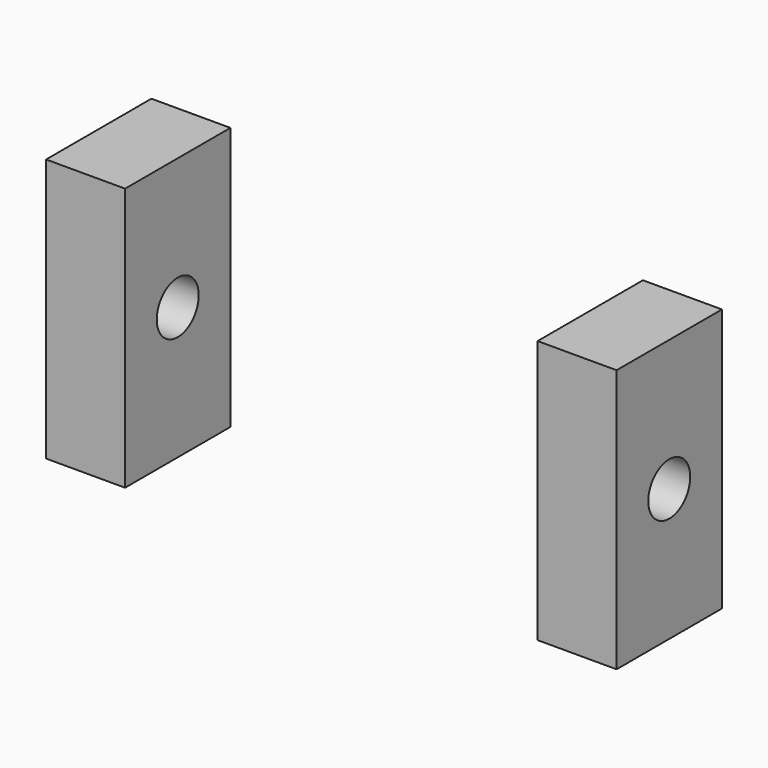
from build123d import *

# Parameters (mm, degrees)
F0_W     = 15.24
F0_H     = 50.8
F1_DEPTH = 25.4
F2_R     = 5.056787
F3_DEPTH = 25.4


with BuildPart() as f1:
    # F0 (on Front) → F1 (new body)
    with BuildSketch(Plane.XZ):
        with Locations((-47.413691, 6.187824)):
            Rectangle(F0_W, F0_H)
    extrude(amount=F1_DEPTH)

    # F2 (on face) → F3 (cut)
    with BuildSketch(Plane.YZ.offset(-39.793691)):
        with Locations((-12.7, 6.260165)):
            Circle(F2_R)
    extrude(amount=-F3_DEPTH, mode=Mode.SUBTRACT)


with BuildPart() as f4_1:
    # F4: instance of F1
    add(f1.part.mirror(Plane.YZ))


solid = Compound([f1.part, f4_1.part])
